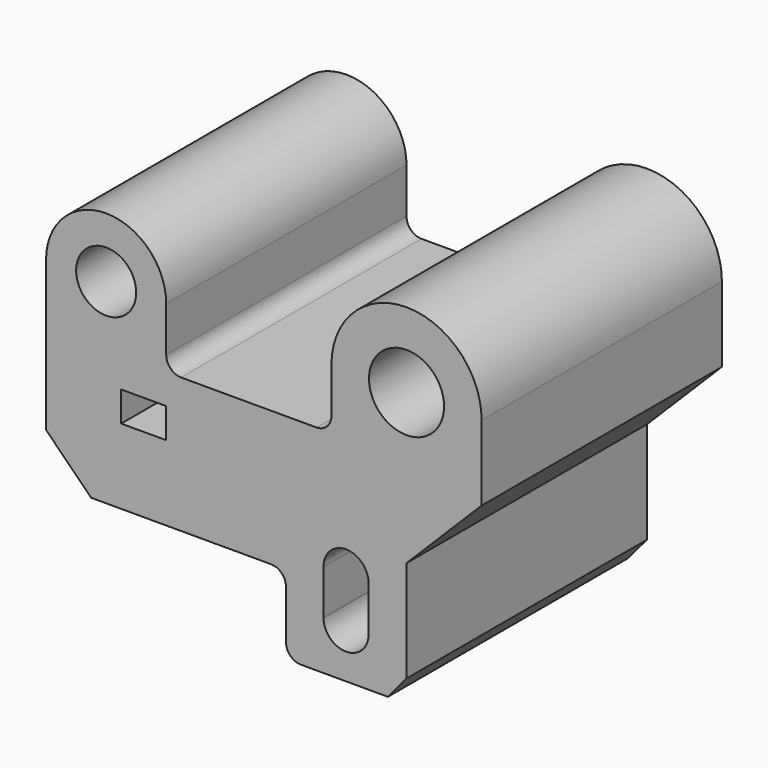
from build123d import *

# Parameters (mm, degrees)
F0_W     = 19.05
F0_H     = 12.7
F0_R     = 12.7
F0_R_2   = 15.875
F1_DEPTH = 127


with BuildPart() as f1:
    # F0 (on Front) → F1 (new body)
    with BuildSketch(Plane.XZ):
        with BuildLine():
            Line((31.75, -31.75), (31.75, 0))
            ThreePointArc((31.75, 0), (0, 31.75), (-31.75, 0))
            Line((-31.75, 0), (-31.75, -19.05))
            ThreePointArc((-31.75, -19.05), (-33.609872, -23.540128), (-38.1, -25.4))
            Line((-38.1, -25.4), (-95.25, -25.4))
            ThreePointArc((-95.25, -25.4), (-99.740128, -23.540128), (-101.6, -19.05))
            Line((-101.6, -19.05), (-101.6, 0))
            ThreePointArc((-101.6, 0), (-127, 25.4), (-152.4, 0))
            Line((-152.4, 0), (-152.4, -63.5))
            Line((-152.4, -63.5), (-133.35, -82.55))
            Line((-133.35, -82.55), (-57.313939, -82.55))
            ThreePointArc((-57.313939, -82.55), (-52.823811, -84.409872), (-50.963939, -88.9))
            Line((-50.963939, -88.9), (-50.963939, -109.487263))
            ThreePointArc((-50.963939, -109.487263), (-49.104067, -113.977391), (-44.613939, -115.837263))
            Line((-44.613939, -115.837263), (-7.874, -115.837263))
            Line((-7.874, -115.837263), (0, -106.426))
            Line((0, -106.426), (0, -63.5))
            Line((0, -63.5), (31.75, -31.75))
        make_face()
        with Locations((-111.125, -44.45)):
            Rectangle(F0_W, F0_H, mode=Mode.SUBTRACT)
        with BuildLine():
            ThreePointArc((-35.087835, -95.395054), (-35.088939, -95.25), (-35.087835, -95.104946))
            Line((-35.087835, -95.104946), (-35.087835, -76.345054))
            ThreePointArc((-35.087835, -76.345054), (-26.488463, -66.719975), (-16.191471, -74.502218))
            ThreePointArc((-16.191471, -74.502218), (-16.039198, -76.129858), (-16.167483, -77.759564))
            Line((-16.167483, -77.759564), (-16.039198, -95.179858))
            ThreePointArc((-16.039198, -95.179858), (-25.45634, -104.774392), (-35.087835, -95.395054))
        make_face(mode=Mode.SUBTRACT)
        with Locations((-127, 0)):
            Circle(F0_R, mode=Mode.SUBTRACT)
        Circle(F0_R_2, mode=Mode.SUBTRACT)
    extrude(amount=F1_DEPTH)


solid = f1.part
